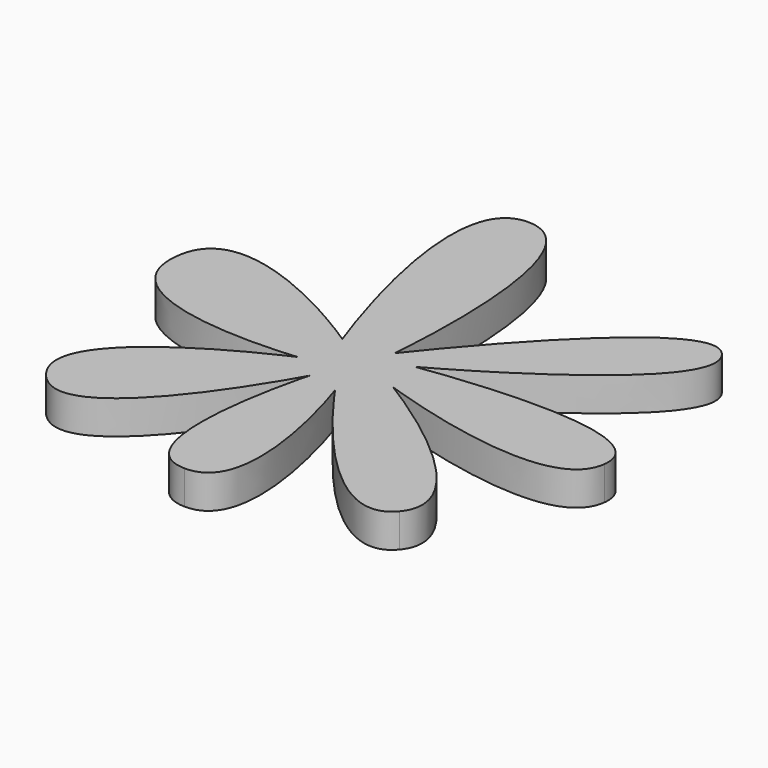
from build123d import *

# Parameters (mm, degrees)
EXTRUDE_DEPTH = 10


with BuildPart() as part:
    # path4138 → Extrude (new body)
    with BuildSketch(Plane(origin=(6.216936, 7.457358, 0), x_dir=(0, -1, 0), z_dir=(0, 0, -1))):
        with BuildLine():
            add(Edge.make_bspline(
                [(-0.397465, 15.756072), (-0.397465, 15.756072), (-72.735897, 42.783617), (-73.133362, 18.935779)],
                knots=[0, 0, 0, 0, 1, 1, 1, 1], degree=3))
            add(Edge.make_bspline(
                [(-73.133362, 18.935779), (-73.530824, -4.912055), (-2.384783, 1.844833), (-2.384783, 1.844833)],
                knots=[0, 0, 0, 0, 1, 1, 1, 1], degree=3))
            add(Edge.make_bspline(
                [(-2.384783, 1.844833), (-2.384783, 1.844833), (-64.389155, -46.248299), (-49.285525, -57.774754)],
                knots=[0, 0, 0, 0, 1, 1, 1, 1], degree=3))
            add(Edge.make_bspline(
                [(-49.285525, -57.774754), (-34.181898, -69.301206), (0, -6.104444), (0, -6.104444)],
                knots=[0, 0, 0, 0, 1, 1, 1, 1], degree=3))
            add(Edge.make_bspline(
                [(0, -6.104444), (0, -6.104444), (-10.731525, -73.673308), (10.731526, -70.891063)],
                knots=[0, 0, 0, 0, 1, 1, 1, 1], degree=3))
            add(Edge.make_bspline(
                [(10.731526, -70.891063), (32.194576, -68.108814), (11.128991, -8.48923), (11.128991, -8.48923)],
                knots=[0, 0, 0, 0, 1, 1, 1, 1], degree=3))
            add(Edge.make_bspline(
                [(11.128991, -8.48923), (11.128991, -8.48923), (42.926102, -61.749391), (58.824659, -48.633082)],
                knots=[0, 0, 0, 0, 1, 1, 1, 1], degree=3))
            add(Edge.make_bspline(
                [(58.824659, -48.633082), (74.723216, -35.516773), (20.668124, 1.049906), (20.668124, 1.049906)],
                knots=[0, 0, 0, 0, 1, 1, 1, 1], degree=3))
            add(Edge.make_bspline(
                [(20.668124, 1.049906), (20.668124, 1.049906), (73.530824, -17.233434), (73.133362, 3.832152)],
                knots=[0, 0, 0, 0, 1, 1, 1, 1], degree=3))
            add(Edge.make_bspline(
                [(73.133362, 3.832152), (72.732307, 25.088046), (18.680803, 10.191575), (18.680803, 10.191575)],
                knots=[0, 0, 0, 0, 1, 1, 1, 1], degree=3))
            add(Edge.make_bspline(
                [(18.680803, 10.191575), (18.680803, 10.191575), (76.313072, 41.193764), (56.83734, 57.887248)],
                knots=[0, 0, 0, 0, 1, 1, 1, 1], degree=3))
            add(Edge.make_bspline(
                [(56.83734, 57.887248), (37.361608, 74.580732), (13.116309, 18.140852), (13.116309, 18.140852)],
                knots=[0, 0, 0, 0, 1, 1, 1, 1], degree=3))
            add(Edge.make_bspline(
                [(13.116309, 18.140852), (13.116309, 18.140852), (19.423121, 73.673308), (-7.949277, 71.798483)],
                knots=[0, 0, 0, 0, 1, 1, 1, 1], degree=3))
            add(Edge.make_bspline(
                [(-7.949277, 71.798483), (-36.964146, 69.811165), (-0.397465, 15.756072), (-0.397465, 15.756072)],
                knots=[0, 0, 0, 0, 1, 1, 1, 1], degree=3))
        make_face()
    extrude(amount=-EXTRUDE_DEPTH)


solid = part.part
